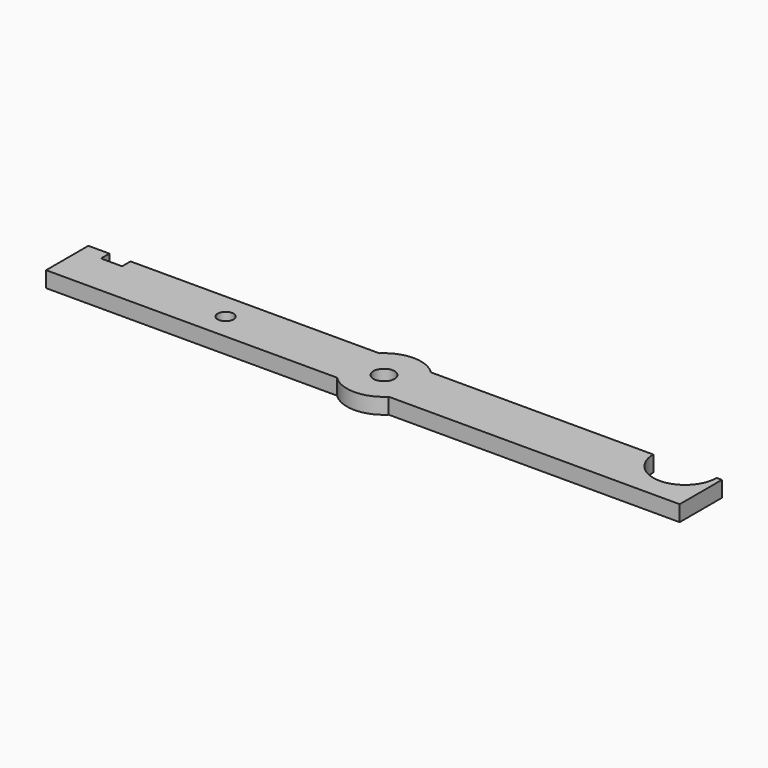
from build123d import *

# Parameters (mm, degrees)
F0_R     = 1.5
F0_R_2   = 2
F1_DEPTH = 3


with BuildPart() as f1:
    # F0 (on Top) → F1 (new body)
    with BuildSketch(Plane.XY):
        with BuildLine():
            Line((-60, -5), (-4.8989794856, -5))
            ThreePointArc((-4.8989794856, -5), (-7, 0), (-4.8989794856, 5))
            Line((-4.8989794856, 5), (-52, 5))
            Line((-52, 5), (-52, 3))
            Line((-52, 3), (-56, 3))
            Line((-56, 3), (-56, 5))
            Line((-56, 5), (-60, 5))
            Line((-60, 5), (-60, -5))
        make_face()
        with Locations((-30, 0)):
            Circle(F0_R, mode=Mode.SUBTRACT)
        with BuildLine():
            Line((4.8989794856, -5), (60, -5))
            Line((60, -5), (60, 5))
            Line((60, 5), (59, 5))
            ThreePointArc((59, 5), (53, -1), (47, 5))
            Line((47, 5), (4.8989794856, 5))
            ThreePointArc((4.8989794856, 5), (6.4534043883, 2.7117470016), (7, 0))
            ThreePointArc((7, 0), (6.4534043883, -2.7117470016), (4.8989794856, -5))
        make_face()
        with BuildLine():
            ThreePointArc((4.8989794856, 5), (0, 7), (-4.8989794856, 5))
            Line((-4.8989794856, 5), (4.8989794856, 5))
        make_face()
        with BuildLine():
            Line((-4.8989794856, -5), (4.8989794856, -5))
            ThreePointArc((4.8989794856, -5), (6.4534043883, -2.7117470016), (7, 0))
            ThreePointArc((7, 0), (6.4534043883, 2.7117470016), (4.8989794856, 5))
            Line((4.8989794856, 5), (-4.8989794856, 5))
            ThreePointArc((-4.8989794856, 5), (-7, 0), (-4.8989794856, -5))
        make_face()
        Circle(F0_R_2, mode=Mode.SUBTRACT)
        with BuildLine():
            ThreePointArc((-4.8989794856, -5), (0, -7), (4.8989794856, -5))
            Line((4.8989794856, -5), (-4.8989794856, -5))
        make_face()
    extrude(amount=F1_DEPTH)


solid = f1.part
